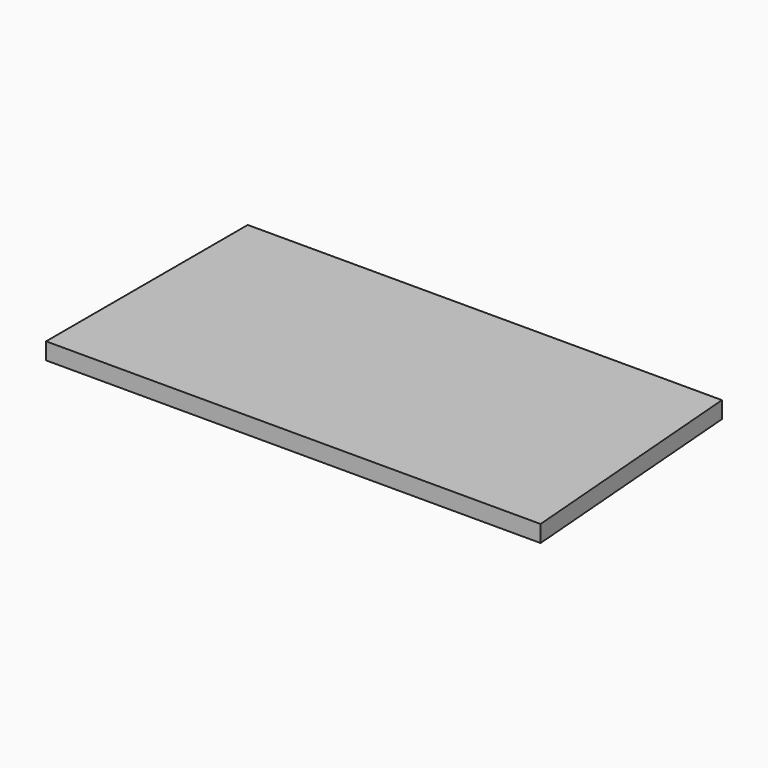
from build123d import *

# Parameters (mm, degrees)
F2_DEPTH = 3


with BuildPart() as f2:
    # F0 (on Top) → F2 (new body)
    with BuildSketch(Plane.XY):
        Polygon((88.2744267583, -44.9956431985), (84.6501290798, 0), (0, 0), (0, -44.9956431985), align=None)
    extrude(amount=F2_DEPTH)


with BuildPart() as f2b:
    # F1 (on face) → F2, piece 2 (new body)
    with BuildSketch(Plane.XY):
        Polygon((0, -44.9956431985), (88.2744267583, -44.9956431985), (84.6501290798, 0), (0, 0), align=None)
    extrude(amount=F2_DEPTH)


solid = Compound([f2.part, f2b.part])
